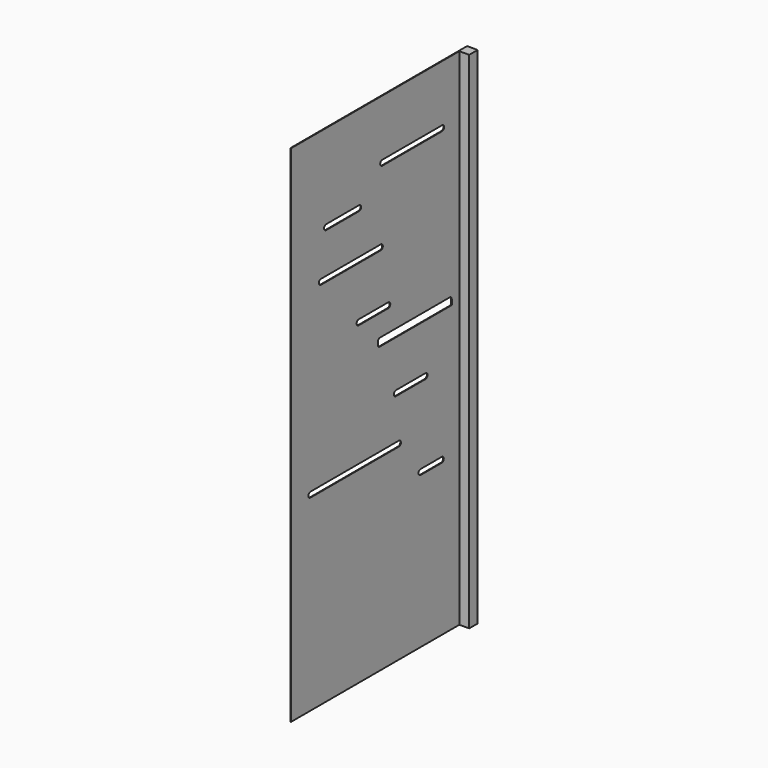
from build123d import *

# Parameters (mm, degrees)
F0_W     = 3
F0_H     = 1000
F1_DEPTH = 2400
F3_DEPTH = 25


with BuildPart() as f1:
    # F0 (on Top) → F1 (new body)
    with BuildSketch(Plane.XY):
        Polygon((0, -50), (0, 0), (-50, 0), (-50, -50), (-47, -50), align=None)
        with Locations((-48.5, -550)):
            Rectangle(F0_W, F0_H)
    extrude(amount=F1_DEPTH)

    # F2 (on face) → F3 (cut)
    with BuildSketch(Plane(origin=(-50, 0, 0), x_dir=(0, -1, 0), z_dir=(-1, 0, 0))):
        with BuildLine():
            Line((507.407176, 2131.650352), (152.407176, 2131.650352))
            ThreePointArc((152.407176, 2131.650352), (143.568342, 2127.989187), (139.907176, 2119.150352))
            ThreePointArc((139.907176, 2119.150352), (143.568342, 2110.311518), (152.407176, 2106.650352))
            Line((152.407176, 2106.650352), (507.407176, 2106.650352))
            ThreePointArc((507.407176, 2106.650352), (516.246011, 2110.311518), (519.907176, 2119.150352))
            ThreePointArc((519.907176, 2119.150352), (516.246011, 2127.989187), (507.407176, 2131.650352))
        make_face()
        with BuildLine():
            Line((871.98, 1781.389432), (516.98, 1781.389432))
            ThreePointArc((516.98, 1781.389432), (508.141165, 1777.728267), (504.48, 1768.889432))
            ThreePointArc((504.48, 1768.889432), (508.141165, 1760.050597), (516.98, 1756.389432))
            Line((516.98, 1756.389432), (871.98, 1756.389432))
            ThreePointArc((871.98, 1756.389432), (880.818834, 1760.050597), (884.48, 1768.889432))
            ThreePointArc((884.48, 1768.889432), (880.818834, 1777.728267), (871.98, 1781.389432))
        make_face()
        with BuildLine():
            Line((647.627461, 1520.91279), (472.627461, 1520.91279))
            ThreePointArc((472.627461, 1520.91279), (463.788626, 1517.251625), (460.127461, 1508.41279))
            ThreePointArc((460.127461, 1508.41279), (463.788626, 1499.573956), (472.627461, 1495.91279))
            Line((472.627461, 1495.91279), (647.627461, 1495.91279))
            ThreePointArc((647.627461, 1495.91279), (656.466296, 1499.573956), (660.127461, 1508.41279))
            ThreePointArc((660.127461, 1508.41279), (656.466296, 1517.251625), (647.627461, 1520.91279))
        make_face()
        with BuildLine():
            Line((426.390964, 1134.527946), (251.390964, 1134.527946))
            ThreePointArc((251.390964, 1134.527946), (242.552129, 1130.86678), (238.890964, 1122.027946))
            ThreePointArc((238.890964, 1122.027946), (242.552129, 1113.189111), (251.390964, 1109.527946))
            Line((251.390964, 1109.527946), (426.390964, 1109.527946))
            ThreePointArc((426.390964, 1109.527946), (435.229799, 1113.189111), (438.890964, 1122.027946))
            ThreePointArc((438.890964, 1122.027946), (435.229799, 1130.86678), (426.390964, 1134.527946))
        make_face()
        with BuildLine():
            Line((934.300172, 916.40743), (409.300172, 916.40743))
            ThreePointArc((409.300172, 916.40743), (400.461338, 912.746265), (396.800172, 903.90743))
            ThreePointArc((396.800172, 903.90743), (400.461338, 895.068595), (409.300172, 891.40743))
            Line((409.300172, 891.40743), (934.300172, 891.40743))
            ThreePointArc((934.300172, 891.40743), (943.139007, 895.068595), (946.800172, 903.90743))
            ThreePointArc((946.800172, 903.90743), (943.139007, 912.746265), (934.300172, 916.40743))
        make_face()
        with BuildLine():
            Line((279.938626, 745.02703), (154.938626, 745.02703))
            ThreePointArc((154.938626, 745.02703), (146.099792, 741.365864), (142.438626, 732.52703))
            ThreePointArc((142.438626, 732.52703), (146.099792, 723.688195), (154.938626, 720.02703))
            Line((154.938626, 720.02703), (279.938626, 720.02703))
            ThreePointArc((279.938626, 720.02703), (288.777461, 723.688195), (292.438626, 732.52703))
            ThreePointArc((292.438626, 732.52703), (288.777461, 741.365864), (279.938626, 745.02703))
        make_face()
        with BuildLine():
            Line((840.819943, 1997.661972), (645.819943, 1997.661972))
            ThreePointArc((645.819943, 1997.661972), (636.981108, 1994.000807), (633.319943, 1985.161972))
            ThreePointArc((633.319943, 1985.161972), (636.981108, 1976.323137), (645.819943, 1972.661972))
            Line((645.819943, 1972.661972), (840.819943, 1972.661972))
            ThreePointArc((840.819943, 1972.661972), (849.658778, 1976.323137), (853.319943, 1985.161972))
            ThreePointArc((853.319943, 1985.161972), (849.658778, 1994.000807), (840.819943, 1997.661972))
        make_face()
        with BuildLine():
            Line((521.740067, 1393.084645), (107.383054, 1393.084645))
            ThreePointArc((107.383054, 1393.084645), (98.54422, 1389.42348), (94.883054, 1380.584645))
            Line((94.883054, 1380.584645), (94.883054, 1355.692506))
            Line((94.883054, 1355.692506), (521.740067, 1355.692506))
            ThreePointArc((521.740067, 1355.692506), (530.578902, 1359.353671), (534.240067, 1368.192506))
            Line((534.240067, 1368.192506), (534.240067, 1380.584645))
            ThreePointArc((534.240067, 1380.584645), (530.578902, 1389.42348), (521.740067, 1393.084645))
        make_face()
    extrude(amount=-F3_DEPTH, mode=Mode.SUBTRACT)


solid = f1.part
